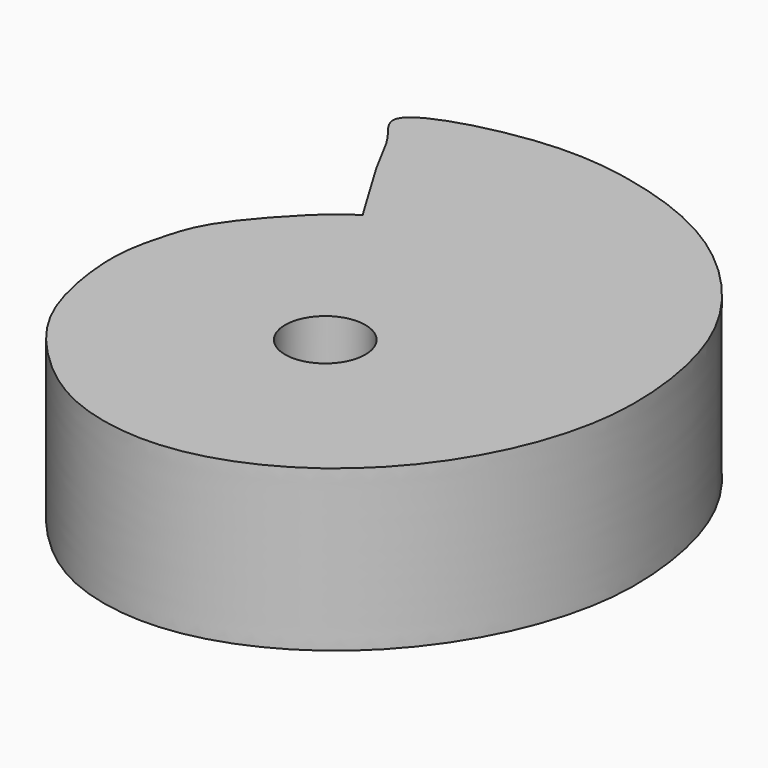
from build123d import *

# Parameters (mm, degrees)
F0_R     = 3.175
F1_DEPTH = 12.7


with BuildPart() as f1:
    # F0 (on Top) → F1 (new body)
    with BuildSketch(Plane.XY):
        with BuildLine():
            add(Edge.make_bspline(
                [(-16.3502562791, 4.8044836149), (-16.6216648975, 3.8369851864), (-17.2182325452, 1.6270879532), (-17.059564531, -2.4645025014), (-15.7593356619, -8.0577691057), (-12.0255415856, -12.6858919101), (-7.0568877623, -16.5307236206), (0.0664146794, -17.9548161803), (7.0268334481, -16.1471429178), (13.1414129542, -11.934382182), (17.704801253, -5.7550477557), (20.0917633031, 1.0054790477), (20.4558073348, 7.6173195576), (18.4942910155, 17.0988673204), (10.7820625049, 25.3498994678), (2.2413333665, 28.5872272053), (-6.0429568002, 29.6440622508), (-16.7283918446, 26.5721623442), (-13.6259680111, 23.4971867608), (-12.6250436258, 20.9319623025), (-9.0199714321, 15.1992941257), (-8.7615871899, 14.6645973385), (-8.509792641, 14.4484263583), (-9.929937884, 13.9080146226), (-15.3672296242, 8.1984052778), (-16.0604004643, 5.8377413167), (-16.3502562791, 4.8044836149)],
                knots=[0, 0, 0, 0, 0.0323440356, 0.0689299248, 0.111979098, 0.1558568014, 0.2008719925, 0.2487911422, 0.2968377633, 0.3458196073, 0.3958431201, 0.4437245695, 0.4899440606, 0.5455397058, 0.6055335221, 0.6592298474, 0.7142089092, 0.7676098528, 0.7957436185, 0.8292048454, 0.8755414907, 0.8887959646, 0.8958197789, 0.9145289468, 0.9654575936, 1, 1, 1, 1], degree=3))
        make_face()
        Circle(F0_R, mode=Mode.SUBTRACT)
    extrude(amount=F1_DEPTH)


solid = f1.part
